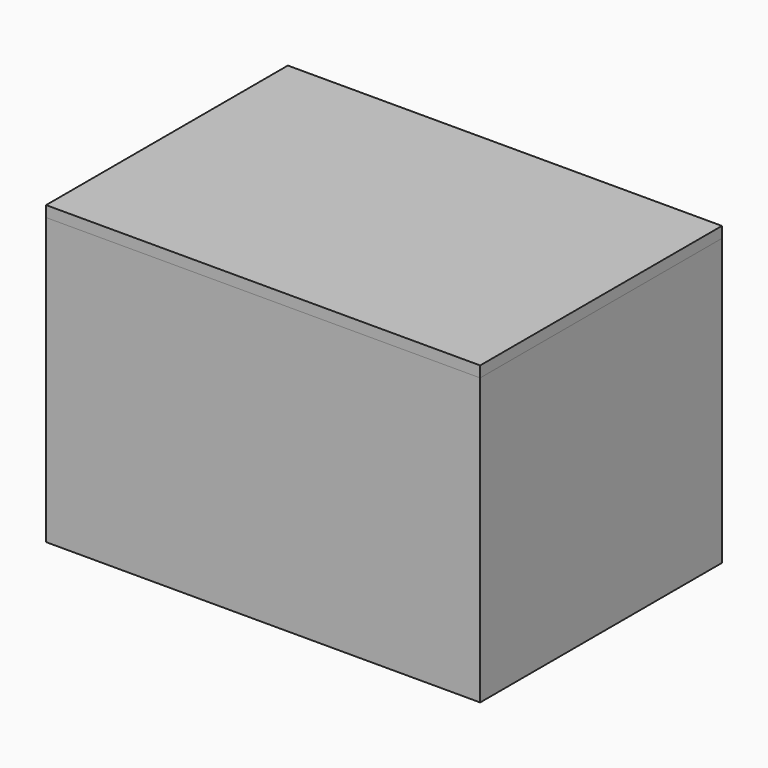
from build123d import *

# Parameters (mm, degrees)
F0_W     = 395
F0_H     = 275
F1_DEPTH = 260
F2_T     = -15
F3_W     = 395
F3_H     = 275
F3_W_2   = 365
F3_H_2   = 245
F4_DEPTH = 10
F5_R     = 10
F6_DEPTH = 10


with BuildPart() as f1:
    # F0 (on Top) → F1 (new body)
    with BuildSketch(Plane.XY):
        Rectangle(F0_W, F0_H)
    extrude(amount=F1_DEPTH)

    # F2
    f2_openings = [f1.faces().sort_by_distance(p)[0] for p in [
        (0, 0, 260),
    ]]
    offset(amount=F2_T, openings=f2_openings)

    # F5 (on face) → F6 (join)
    with BuildSketch(Plane.XY.offset(15)):
        with Locations((10, 0)):
            Circle(F5_R)
    extrude(amount=F6_DEPTH)


with BuildPart() as f4:
    # F3 (on face) → F4 (new body)
    with BuildSketch(Plane.XY.offset(260)):
        Rectangle(F3_W, F3_H)
        Rectangle(F3_W_2, F3_H_2, mode=Mode.SUBTRACT)
        Rectangle(F3_W_2, F3_H_2)
    extrude(amount=F4_DEPTH)


solid = Compound([f1.part, f4.part])
